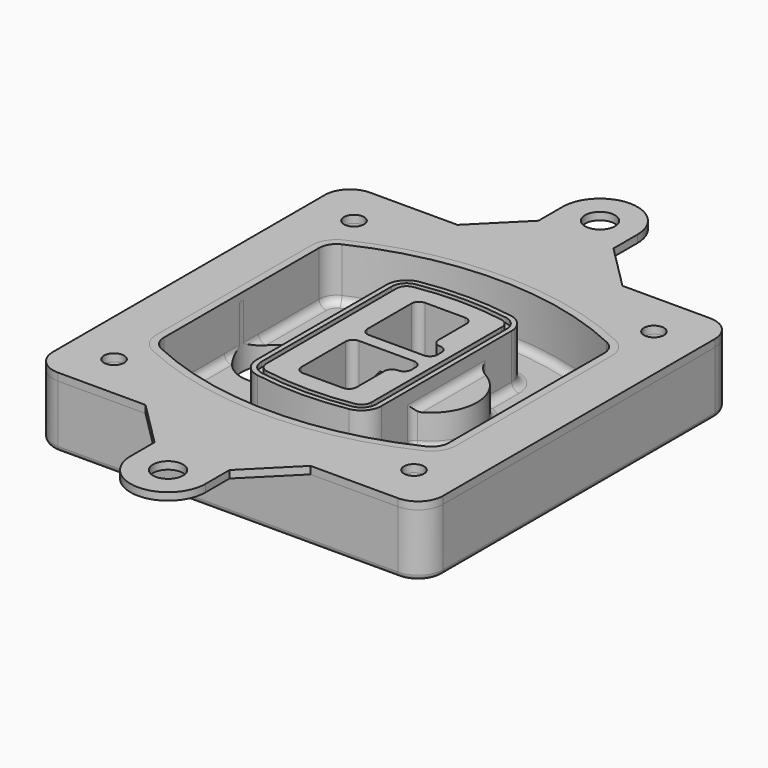
from build123d import *

# Parameters (mm, degrees)
F0_R      = 4
F1_DEPTH  = 25
F2_DEPTH  = 3
F3_DEPTH  = 18
F5_DEPTH  = 21
F6_DEPTH  = 2
F8_DEPTH  = 20
F9_DEPTH  = 16
F10_DEPTH = 25
F7_R      = 6
F7_R_2    = 4
F11_DEPTH = 6
F13_DEPTH = 9
F14_R     = 3
F15_R     = 2
F16_R     = 6
F16_R_2   = 4
F17_DEPTH = 3


with BuildPart() as f1:
    # F0 (on Top) → F1 (new body)
    with BuildSketch(Plane.XY):
        with BuildLine():
            ThreePointArc((-78, -68), (-75.0710678119, -75.0710678119), (-68, -78))
            Line((-68, -78), (68, -78))
            ThreePointArc((68, -78), (75.0710678119, -75.0710678119), (78, -68))
            Line((78, -68), (78, 68))
            ThreePointArc((78, 68), (75.0710678119, 75.0710678119), (68, 78))
            Line((68, 78), (-68, 78))
            ThreePointArc((-68, 78), (-75.0710678119, 75.0710678119), (-78, 68))
            Line((-78, 68), (-78, -68))
        make_face()
        with Locations((-60, -60)):
            Circle(F0_R, mode=Mode.SUBTRACT)
        with Locations((60, -60)):
            Circle(F0_R, mode=Mode.SUBTRACT)
        with Locations((-60, 60)):
            Circle(F0_R, mode=Mode.SUBTRACT)
        with BuildLine():
            ThreePointArc((-64, 38.8308515907), (-61.8195654598, 46.3340424013), (-55.9574468085, 51.5000594398))
            ThreePointArc((-55.9574468085, 51.5000594398), (0, 64), (55.9574468085, 51.5000594398))
            ThreePointArc((55.9574468085, 51.5000594398), (61.8195654598, 46.3340424013), (64, 38.8308515907))
            Line((64, 38.8308515907), (64, -38.8308515907))
            ThreePointArc((64, -38.8308515907), (61.8195654598, -46.3340424013), (55.9574468085, -51.5000594398))
            ThreePointArc((55.9574468085, -51.5000594398), (0, -64), (-55.9574468085, -51.5000594398))
            ThreePointArc((-55.9574468085, -51.5000594398), (-61.8195654598, -46.3340424013), (-64, -38.8308515907))
            Line((-64, -38.8308515907), (-64, 38.8308515907))
        make_face(mode=Mode.SUBTRACT)
        with Locations((60, 60)):
            Circle(F0_R, mode=Mode.SUBTRACT)
        with BuildLine():
            ThreePointArc((55.9574468085, 51.5000594398), (0, 64), (-55.9574468085, 51.5000594398))
            ThreePointArc((-55.9574468085, 51.5000594398), (-61.8195654598, 46.3340424013), (-64, 38.8308515907))
            Line((-64, 38.8308515907), (-64, -38.8308515907))
            ThreePointArc((-64, -38.8308515907), (-61.8195654598, -46.3340424013), (-55.9574468085, -51.5000594398))
            ThreePointArc((-55.9574468085, -51.5000594398), (0, -64), (55.9574468085, -51.5000594398))
            ThreePointArc((55.9574468085, -51.5000594398), (61.8195654598, -46.3340424013), (64, -38.8308515907))
            Line((64, -38.8308515907), (64, 38.8308515907))
            ThreePointArc((64, 38.8308515907), (61.8195654598, 46.3340424013), (55.9574468085, 51.5000594398))
        make_face()
        with BuildLine():
            Line((-60, -38.8308515907), (-60, 38.8308515907))
            ThreePointArc((-60, 38.8308515907), (-58.442546757, 44.1902735983), (-54.2553191489, 47.8802857686))
            ThreePointArc((-54.2553191489, 47.8802857686), (0, 60), (54.2553191489, 47.8802857686))
            ThreePointArc((54.2553191489, 47.8802857686), (58.442546757, 44.1902735983), (60, 38.8308515907))
            Line((60, 38.8308515907), (60, -38.8308515907))
            ThreePointArc((60, -38.8308515907), (58.442546757, -44.1902735983), (54.2553191489, -47.8802857686))
            ThreePointArc((54.2553191489, -47.8802857686), (0, -60), (-54.2553191489, -47.8802857686))
            ThreePointArc((-54.2553191489, -47.8802857686), (-58.442546757, -44.1902735983), (-60, -38.8308515907))
        make_face(mode=Mode.SUBTRACT)
        with BuildLine():
            ThreePointArc((-54.2553191489, 47.8802857686), (-58.442546757, 44.1902735983), (-60, 38.8308515907))
            Line((-60, 38.8308515907), (-60, -38.8308515907))
            ThreePointArc((-60, -38.8308515907), (-58.442546757, -44.1902735983), (-54.2553191489, -47.8802857686))
            ThreePointArc((-54.2553191489, -47.8802857686), (0, -60), (54.2553191489, -47.8802857686))
            ThreePointArc((54.2553191489, -47.8802857686), (58.442546757, -44.1902735983), (60, -38.8308515907))
            Line((60, -38.8308515907), (60, 38.8308515907))
            ThreePointArc((60, 38.8308515907), (58.442546757, 44.1902735983), (54.2553191489, 47.8802857686))
            ThreePointArc((54.2553191489, 47.8802857686), (0, 60), (-54.2553191489, 47.8802857686))
        make_face()
        with BuildLine():
            ThreePointArc((52.9787234043, 45.1654555152), (55.9097827299, 42.582446996), (57, 38.8308515907))
            Line((57, 38.8308515907), (57, -38.8308515907))
            ThreePointArc((57, -38.8308515907), (55.9097827299, -42.582446996), (52.9787234043, -45.1654555152))
            ThreePointArc((52.9787234043, -45.1654555152), (0, -57), (-52.9787234043, -45.1654555152))
            ThreePointArc((-52.9787234043, -45.1654555152), (-55.9097827299, -42.582446996), (-57, -38.8308515907))
            Line((-57, -38.8308515907), (-57, 38.8308515907))
            ThreePointArc((-57, 38.8308515907), (-55.9097827299, 42.582446996), (-52.9787234043, 45.1654555152))
            ThreePointArc((-52.9787234043, 45.1654555152), (0, 57), (52.9787234043, 45.1654555152))
        make_face(mode=Mode.SUBTRACT)
        with BuildLine():
            Line((57, -38.8308515907), (57, 38.8308515907))
            ThreePointArc((57, 38.8308515907), (55.9097827299, 42.582446996), (52.9787234043, 45.1654555152))
            ThreePointArc((52.9787234043, 45.1654555152), (0, 57), (-52.9787234043, 45.1654555152))
            ThreePointArc((-52.9787234043, 45.1654555152), (-55.9097827299, 42.582446996), (-57, 38.8308515907))
            Line((-57, 38.8308515907), (-57, -38.8308515907))
            ThreePointArc((-57, -38.8308515907), (-55.9097827299, -42.582446996), (-52.9787234043, -45.1654555152))
            ThreePointArc((-52.9787234043, -45.1654555152), (0, -57), (52.9787234043, -45.1654555152))
            ThreePointArc((52.9787234043, -45.1654555152), (55.9097827299, -42.582446996), (57, -38.8308515907))
        make_face()
    extrude(amount=-F1_DEPTH)

    # F0 (on Top) → F2 (join)
    with BuildSketch(Plane.XY):
        with BuildLine():
            ThreePointArc((-54.2553191489, 47.8802857686), (-58.442546757, 44.1902735983), (-60, 38.8308515907))
            Line((-60, 38.8308515907), (-60, -38.8308515907))
            ThreePointArc((-60, -38.8308515907), (-58.442546757, -44.1902735983), (-54.2553191489, -47.8802857686))
            ThreePointArc((-54.2553191489, -47.8802857686), (0, -60), (54.2553191489, -47.8802857686))
            ThreePointArc((54.2553191489, -47.8802857686), (58.442546757, -44.1902735983), (60, -38.8308515907))
            Line((60, -38.8308515907), (60, 38.8308515907))
            ThreePointArc((60, 38.8308515907), (58.442546757, 44.1902735983), (54.2553191489, 47.8802857686))
            ThreePointArc((54.2553191489, 47.8802857686), (0, 60), (-54.2553191489, 47.8802857686))
        make_face()
        with BuildLine():
            ThreePointArc((52.9787234043, 45.1654555152), (55.9097827299, 42.582446996), (57, 38.8308515907))
            Line((57, 38.8308515907), (57, -38.8308515907))
            ThreePointArc((57, -38.8308515907), (55.9097827299, -42.582446996), (52.9787234043, -45.1654555152))
            ThreePointArc((52.9787234043, -45.1654555152), (0, -57), (-52.9787234043, -45.1654555152))
            ThreePointArc((-52.9787234043, -45.1654555152), (-55.9097827299, -42.582446996), (-57, -38.8308515907))
            Line((-57, -38.8308515907), (-57, 38.8308515907))
            ThreePointArc((-57, 38.8308515907), (-55.9097827299, 42.582446996), (-52.9787234043, 45.1654555152))
            ThreePointArc((-52.9787234043, 45.1654555152), (0, 57), (52.9787234043, 45.1654555152))
        make_face(mode=Mode.SUBTRACT)
    extrude(amount=F2_DEPTH)

    # F0 (on Top) → F3 (cut)
    with BuildSketch(Plane.XY):
        with BuildLine():
            Line((57, -38.8308515907), (57, 38.8308515907))
            ThreePointArc((57, 38.8308515907), (55.9097827299, 42.582446996), (52.9787234043, 45.1654555152))
            ThreePointArc((52.9787234043, 45.1654555152), (0, 57), (-52.9787234043, 45.1654555152))
            ThreePointArc((-52.9787234043, 45.1654555152), (-55.9097827299, 42.582446996), (-57, 38.8308515907))
            Line((-57, 38.8308515907), (-57, -38.8308515907))
            ThreePointArc((-57, -38.8308515907), (-55.9097827299, -42.582446996), (-52.9787234043, -45.1654555152))
            ThreePointArc((-52.9787234043, -45.1654555152), (0, -57), (52.9787234043, -45.1654555152))
            ThreePointArc((52.9787234043, -45.1654555152), (55.9097827299, -42.582446996), (57, -38.8308515907))
        make_face()
    extrude(amount=-F3_DEPTH, mode=Mode.SUBTRACT)

    # F4 (on face) → F5 (join, through all)
    with BuildSketch(Plane.XY.offset(3)):
        with BuildLine():
            ThreePointArc((-25, -32.5662280692), (-23.1122504785, -37.7276614059), (-18.3399014778, -40.4532214146))
            ThreePointArc((-18.3399014778, -40.4532214146), (0, -42), (18.3399014778, -40.4532214146))
            ThreePointArc((18.3399014778, -40.4532214146), (23.1122504785, -37.7276614059), (25, -32.5662280692))
            Line((25, -32.5662280692), (25, 32.5662280692))
            ThreePointArc((25, 32.5662280692), (23.1122504785, 37.7276614059), (18.3399014778, 40.4532214146))
            ThreePointArc((18.3399014778, 40.4532214146), (0, 42), (-18.3399014778, 40.4532214146))
            ThreePointArc((-18.3399014778, 40.4532214146), (-23.1122504785, 37.7276614059), (-25, 32.5662280692))
            Line((-25, 32.5662280692), (-25, -32.5662280692))
        make_face()
        with BuildLine():
            ThreePointArc((18.0049261084, 38.4814730782), (21.5841878588, 36.4373030717), (23, 32.5662280692))
            Line((23, 32.5662280692), (23, -32.5662280692))
            ThreePointArc((23, -32.5662280692), (21.5841878588, -36.4373030717), (18.0049261084, -38.4814730782))
            ThreePointArc((18.0049261084, -38.4814730782), (0, -40), (-18.0049261084, -38.4814730782))
            ThreePointArc((-18.0049261084, -38.4814730782), (-21.5841878588, -36.4373030717), (-23, -32.5662280692))
            Line((-23, -32.5662280692), (-23, 32.5662280692))
            ThreePointArc((-23, 32.5662280692), (-21.5841878588, 36.4373030717), (-18.0049261084, 38.4814730782))
            ThreePointArc((-18.0049261084, 38.4814730782), (0, 40), (18.0049261084, 38.4814730782))
        make_face(mode=Mode.SUBTRACT)
        with BuildLine():
            Line((23, -32.5662280692), (23, 32.5662280692))
            ThreePointArc((23, 32.5662280692), (21.5841878588, 36.4373030717), (18.0049261084, 38.4814730782))
            ThreePointArc((18.0049261084, 38.4814730782), (0, 40), (-18.0049261084, 38.4814730782))
            ThreePointArc((-18.0049261084, 38.4814730782), (-21.5841878588, 36.4373030717), (-23, 32.5662280692))
            Line((-23, 32.5662280692), (-23, -32.5662280692))
            ThreePointArc((-23, -32.5662280692), (-21.5841878588, -36.4373030717), (-18.0049261084, -38.4814730782))
            ThreePointArc((-18.0049261084, -38.4814730782), (0, -40), (18.0049261084, -38.4814730782))
            ThreePointArc((18.0049261084, -38.4814730782), (21.5841878588, -36.4373030717), (23, -32.5662280692))
        make_face()
        with BuildLine():
            ThreePointArc((17.6699507389, 36.5097247419), (20.0561252392, 35.1469447375), (21, 32.5662280692))
            Line((21, 32.5662280692), (21, -32.5662280692))
            ThreePointArc((21, -32.5662280692), (20.0561252392, -35.1469447375), (17.6699507389, -36.5097247419))
            ThreePointArc((17.6699507389, -36.5097247419), (0, -38), (-17.6699507389, -36.5097247419))
            ThreePointArc((-17.6699507389, -36.5097247419), (-20.0561252392, -35.1469447375), (-21, -32.5662280692))
            Line((-21, -32.5662280692), (-21, 32.5662280692))
            ThreePointArc((-21, 32.5662280692), (-20.0561252392, 35.1469447375), (-17.6699507389, 36.5097247419))
            ThreePointArc((-17.6699507389, 36.5097247419), (0, 38), (17.6699507389, 36.5097247419))
        make_face(mode=Mode.SUBTRACT)
        with BuildLine():
            Line((21, -32.5662280692), (21, 32.5662280692))
            ThreePointArc((21, 32.5662280692), (20.0561252392, 35.1469447375), (17.6699507389, 36.5097247419))
            ThreePointArc((17.6699507389, 36.5097247419), (0, 38), (-17.6699507389, 36.5097247419))
            ThreePointArc((-17.6699507389, 36.5097247419), (-20.0561252392, 35.1469447375), (-21, 32.5662280692))
            Line((-21, 32.5662280692), (-21, -32.5662280692))
            ThreePointArc((-21, -32.5662280692), (-20.0561252392, -35.1469447375), (-17.6699507389, -36.5097247419))
            ThreePointArc((-17.6699507389, -36.5097247419), (0, -38), (17.6699507389, -36.5097247419))
            ThreePointArc((17.6699507389, -36.5097247419), (20.0561252392, -35.1469447375), (21, -32.5662280692))
        make_face()
        with BuildLine():
            Line((-8, -2.5), (14, -2.5))
            ThreePointArc((14, -2.5), (16.1213203436, -3.3786796564), (17, -5.5))
            Line((17, -5.5), (17, -7.5))
            ThreePointArc((17, -7.5), (16.1213203436, -9.6213203436), (14, -10.5))
            ThreePointArc((14, -10.5), (11.8786796564, -11.3786796564), (11, -13.5))
            Line((11, -13.5), (11, -27.5))
            ThreePointArc((11, -27.5), (10.1213203436, -29.6213203436), (8, -30.5))
            Line((8, -30.5), (-8, -30.5))
            ThreePointArc((-8, -30.5), (-10.1213203436, -29.6213203436), (-11, -27.5))
            Line((-11, -27.5), (-11, -5.5))
            ThreePointArc((-11, -5.5), (-10.1213203436, -3.3786796564), (-8, -2.5))
        make_face(mode=Mode.SUBTRACT)
        with BuildLine():
            ThreePointArc((-8, 2.5), (-10.1213203436, 3.3786796564), (-11, 5.5))
            Line((-11, 5.5), (-11, 27.5))
            ThreePointArc((-11, 27.5), (-10.1213203436, 29.6213203436), (-8, 30.5))
            Line((-8, 30.5), (8, 30.5))
            ThreePointArc((8, 30.5), (10.1213203436, 29.6213203436), (11, 27.5))
            Line((11, 27.5), (11, 13.5))
            ThreePointArc((11, 13.5), (11.8786796564, 11.3786796564), (14, 10.5))
            ThreePointArc((14, 10.5), (16.1213203436, 9.6213203436), (17, 7.5))
            Line((17, 7.5), (17, 5.5))
            ThreePointArc((17, 5.5), (16.1213203436, 3.3786796564), (14, 2.5))
            Line((14, 2.5), (-8, 2.5))
        make_face(mode=Mode.SUBTRACT)
    extrude(amount=-F5_DEPTH)

    # F4 (on face) → F6 (cut)
    with BuildSketch(Plane.XY.offset(3)):
        with BuildLine():
            Line((23, -32.5662280692), (23, 32.5662280692))
            ThreePointArc((23, 32.5662280692), (21.5841878588, 36.4373030717), (18.0049261084, 38.4814730782))
            ThreePointArc((18.0049261084, 38.4814730782), (0, 40), (-18.0049261084, 38.4814730782))
            ThreePointArc((-18.0049261084, 38.4814730782), (-21.5841878588, 36.4373030717), (-23, 32.5662280692))
            Line((-23, 32.5662280692), (-23, -32.5662280692))
            ThreePointArc((-23, -32.5662280692), (-21.5841878588, -36.4373030717), (-18.0049261084, -38.4814730782))
            ThreePointArc((-18.0049261084, -38.4814730782), (0, -40), (18.0049261084, -38.4814730782))
            ThreePointArc((18.0049261084, -38.4814730782), (21.5841878588, -36.4373030717), (23, -32.5662280692))
        make_face()
        with BuildLine():
            ThreePointArc((17.6699507389, 36.5097247419), (20.0561252392, 35.1469447375), (21, 32.5662280692))
            Line((21, 32.5662280692), (21, -32.5662280692))
            ThreePointArc((21, -32.5662280692), (20.0561252392, -35.1469447375), (17.6699507389, -36.5097247419))
            ThreePointArc((17.6699507389, -36.5097247419), (0, -38), (-17.6699507389, -36.5097247419))
            ThreePointArc((-17.6699507389, -36.5097247419), (-20.0561252392, -35.1469447375), (-21, -32.5662280692))
            Line((-21, -32.5662280692), (-21, 32.5662280692))
            ThreePointArc((-21, 32.5662280692), (-20.0561252392, 35.1469447375), (-17.6699507389, 36.5097247419))
            ThreePointArc((-17.6699507389, 36.5097247419), (0, 38), (17.6699507389, 36.5097247419))
        make_face(mode=Mode.SUBTRACT)
    extrude(amount=-F6_DEPTH, mode=Mode.SUBTRACT)

    # F7 (on face) → F8 (join)
    with BuildSketch(Plane(origin=(0, 0, -25), x_dir=(1, 0, 0), z_dir=(0, 0, -1))):
        with BuildLine():
            ThreePointArc((5.28842436, 0), (18.7567035675, 13.4682792075), (32.224982775, 0))
            Line((32.224982775, 0), (37.224982775, 0))
            ThreePointArc((37.224982775, 0), (18.7567035675, 18.4682792075), (0.28842436, 0))
            Line((0.28842436, 0), (5.28842436, 0))
        make_face()
        with BuildLine():
            Line((5.28842436, 0), (32.224982775, 0))
            ThreePointArc((32.224982775, 0), (18.7567035675, 13.4682792075), (5.28842436, 0))
        make_face()
        with BuildLine():
            ThreePointArc((5.28842436, 0), (18.7567035675, -13.4682792075), (32.224982775, 0))
            Line((32.224982775, 0), (5.28842436, 0))
        make_face()
        with BuildLine():
            Line((37.224982775, 0), (32.224982775, 0))
            ThreePointArc((32.224982775, 0), (18.7567035675, -13.4682792075), (5.28842436, 0))
            Line((5.28842436, 0), (0.28842436, 0))
            ThreePointArc((0.28842436, 0), (18.7567035675, -18.4682792075), (37.224982775, 0))
        make_face()
    extrude(amount=-F8_DEPTH)

    # F7 (on face) → F9 (cut)
    with BuildSketch(Plane(origin=(0, 0, -25), x_dir=(1, 0, 0), z_dir=(0, 0, -1))):
        with BuildLine():
            Line((5.28842436, 0), (32.224982775, 0))
            ThreePointArc((32.224982775, 0), (18.7567035675, 13.4682792075), (5.28842436, 0))
        make_face()
        with BuildLine():
            ThreePointArc((5.28842436, 0), (18.7567035675, -13.4682792075), (32.224982775, 0))
            Line((32.224982775, 0), (5.28842436, 0))
        make_face()
    extrude(amount=-F9_DEPTH, mode=Mode.SUBTRACT)

    # F7 (on face) → F10 (cut)
    with BuildSketch(Plane(origin=(0, 0, -25), x_dir=(1, 0, 0), z_dir=(0, 0, -1))):
        with BuildLine():
            Line((-57.0318229325, 0), (-30.0952645175, 0))
            ThreePointArc((-30.0952645175, 0), (-43.563543725, 13.4682792075), (-57.0318229325, 0))
        make_face()
        with BuildLine():
            ThreePointArc((-57.0318229325, 0), (-43.563543725, -13.4682792075), (-30.0952645175, 0))
            Line((-30.0952645175, 0), (-57.0318229325, 0))
        make_face()
    extrude(amount=-F10_DEPTH, mode=Mode.SUBTRACT)

    # F7 (on face) → F11 (cut)
    with BuildSketch(Plane(origin=(0, 0, -25), x_dir=(1, 0, 0), z_dir=(0, 0, -1))):
        with Locations((60, -60)):
            Circle(F7_R)
        with Locations((60, -60)):
            Circle(F7_R_2, mode=Mode.SUBTRACT)
        with Locations((60, -60)):
            Circle(F7_R)
        with Locations((60, -60)):
            Circle(F7_R_2, mode=Mode.SUBTRACT)
        with Locations((-60, -60)):
            Circle(F7_R)
        with Locations((-60, -60)):
            Circle(F7_R_2, mode=Mode.SUBTRACT)
        with Locations((-60, -60)):
            Circle(F7_R)
        with Locations((-60, -60)):
            Circle(F7_R_2, mode=Mode.SUBTRACT)
        with Locations((-60, 60)):
            Circle(F7_R)
        with Locations((-60, 60)):
            Circle(F7_R_2, mode=Mode.SUBTRACT)
        with Locations((-60, 60)):
            Circle(F7_R)
        with Locations((-60, 60)):
            Circle(F7_R_2, mode=Mode.SUBTRACT)
        with Locations((60, 60)):
            Circle(F7_R)
        with Locations((60, 60)):
            Circle(F7_R_2, mode=Mode.SUBTRACT)
        with Locations((60, 60)):
            Circle(F7_R)
        with Locations((60, 60)):
            Circle(F7_R_2, mode=Mode.SUBTRACT)
    extrude(amount=-F11_DEPTH, mode=Mode.SUBTRACT)

    # F12 (on face) → F13 (cut, through all)
    with BuildSketch(Plane(origin=(0, 0, -9), x_dir=(1, 0, 0), z_dir=(0, 0, -1))):
        with BuildLine():
            Line((11, 13.5), (11, 16.7603963752))
            ThreePointArc((11, 16.7603963752), (3.9055968696, 10.9782497117), (0.4584157545, 2.5))
            Line((0.4584157545, 2.5), (5.5224848595, 2.5))
            ThreePointArc((5.5224848595, 2.5), (7.683022827, 7.6660380685), (11.7577580176, 11.5069242633))
            ThreePointArc((11.7577580176, 11.5069242633), (11.1958311439, 12.4338681947), (11, 13.5))
        make_face()
        with BuildLine():
            ThreePointArc((11.7577580176, -11.5069242633), (7.683022827, -7.6660380686), (5.5224848595, -2.5))
            Line((5.5224848595, -2.5), (0.4584157545, -2.5))
            ThreePointArc((0.4584157545, -2.5), (3.9055968696, -10.9782497117), (11, -16.7603963752))
            Line((11, -16.7603963752), (11, -13.5))
            ThreePointArc((11, -13.5), (11.1958311439, -12.4338681947), (11.7577580176, -11.5069242633))
        make_face()
        with BuildLine():
            ThreePointArc((11.7577580176, 11.5069242633), (7.683022827, 7.6660380685), (5.5224848595, 2.5))
            Line((5.5224848595, 2.5), (14, 2.5))
            ThreePointArc((14, 2.5), (16.1213203436, 3.3786796564), (17, 5.5))
            Line((17, 5.5), (17, 7.5))
            ThreePointArc((17, 7.5), (16.1213203436, 9.6213203436), (14, 10.5))
            ThreePointArc((14, 10.5), (12.7710222154, 10.763284157), (11.7577580176, 11.5069242633))
        make_face()
        with BuildLine():
            Line((14, -2.5), (5.5224848595, -2.5))
            ThreePointArc((5.5224848595, -2.5), (7.683022827, -7.6660380686), (11.7577580176, -11.5069242633))
            ThreePointArc((11.7577580176, -11.5069242633), (12.7710222154, -10.763284157), (14, -10.5))
            ThreePointArc((14, -10.5), (16.1213203436, -9.6213203436), (17, -7.5))
            Line((17, -7.5), (17, -5.5))
            ThreePointArc((17, -5.5), (16.1213203436, -3.3786796564), (14, -2.5))
        make_face()
    extrude(amount=F13_DEPTH, mode=Mode.SUBTRACT)

    # F14
    f14_edges = [f1.edges().sort_by_distance(p)[0] for p in [
        (-57, -19.878078, -18),
        (-57, 19.878078, -18),
        (25, 0, -5),
        (25, 17.380983, -11.5),
        (25, -17.380983, -11.5),
        (25, -24.973606, -18),
        (37.224983, 0, -18),
    ]]
    fillet(f14_edges, radius=F14_R)

    # F15
    f15_edges = [f1.edges().sort_by_distance(p)[0] for p in [
        (0, -78, -25),
    ]]
    fillet(f15_edges, radius=F15_R)


with BuildPart() as f17:
    # F16 (on face) → F17 (new body, through all)
    with BuildSketch(Plane.XY):
        with BuildLine():
            Line((-15, 96), (-33, 78))
            Line((-33, 78), (33, 78))
            Line((33, 78), (15, 96))
            Line((15, 96), (15, 108))
            ThreePointArc((15, 108), (0, 123), (-15, 108))
            Line((-15, 108), (-15, 96))
        make_face()
        with Locations((0, 108)):
            Circle(F16_R, mode=Mode.SUBTRACT)
        with BuildLine():
            Line((-78, 68), (-78, -68))
            ThreePointArc((-78, -68), (-75.0710678119, -75.0710678119), (-68, -78))
            Line((-68, -78), (-33, -78))
            Line((-33, -78), (33, -78))
            Line((33, -78), (68, -78))
            ThreePointArc((68, -78), (75.0710678119, -75.0710678119), (78, -68))
            Line((78, -68), (78, 68))
            ThreePointArc((78, 68), (75.0710678119, 75.0710678119), (68, 78))
            Line((68, 78), (33, 78))
            Line((33, 78), (-33, 78))
            Line((-33, 78), (-68, 78))
            ThreePointArc((-68, 78), (-75.0710678119, 75.0710678119), (-78, 68))
        make_face()
        with Locations((-60, -60)):
            Circle(F16_R_2, mode=Mode.SUBTRACT)
        with Locations((60, -60)):
            Circle(F16_R_2, mode=Mode.SUBTRACT)
        with Locations((-60, 60)):
            Circle(F16_R_2, mode=Mode.SUBTRACT)
        with BuildLine():
            ThreePointArc((54.2553191489, -47.8802857686), (0, -60), (-54.2553191489, -47.8802857686))
            ThreePointArc((-54.2553191489, -47.8802857686), (-58.442546757, -44.1902735983), (-60, -38.8308515907))
            Line((-60, -38.8308515907), (-60, 38.8308515907))
            ThreePointArc((-60, 38.8308515907), (-58.442546757, 44.1902735983), (-54.2553191489, 47.8802857686))
            ThreePointArc((-54.2553191489, 47.8802857686), (0, 60), (54.2553191489, 47.8802857686))
            ThreePointArc((54.2553191489, 47.8802857686), (58.442546757, 44.1902735983), (60, 38.8308515907))
            Line((60, 38.8308515907), (60, -38.8308515907))
            ThreePointArc((60, -38.8308515907), (58.442546757, -44.1902735983), (54.2553191489, -47.8802857686))
        make_face(mode=Mode.SUBTRACT)
        with Locations((60, 60)):
            Circle(F16_R_2, mode=Mode.SUBTRACT)
        with BuildLine():
            Line((33, -78), (-33, -78))
            Line((-33, -78), (-15, -96))
            Line((-15, -96), (-15, -108))
            ThreePointArc((-15, -108), (0, -123), (15, -108))
            Line((15, -108), (15, -96))
            Line((15, -96), (33, -78))
        make_face()
        with Locations((0, -108)):
            Circle(F16_R, mode=Mode.SUBTRACT)
    extrude(amount=F17_DEPTH)


solid = Compound([f1.part, f17.part])
